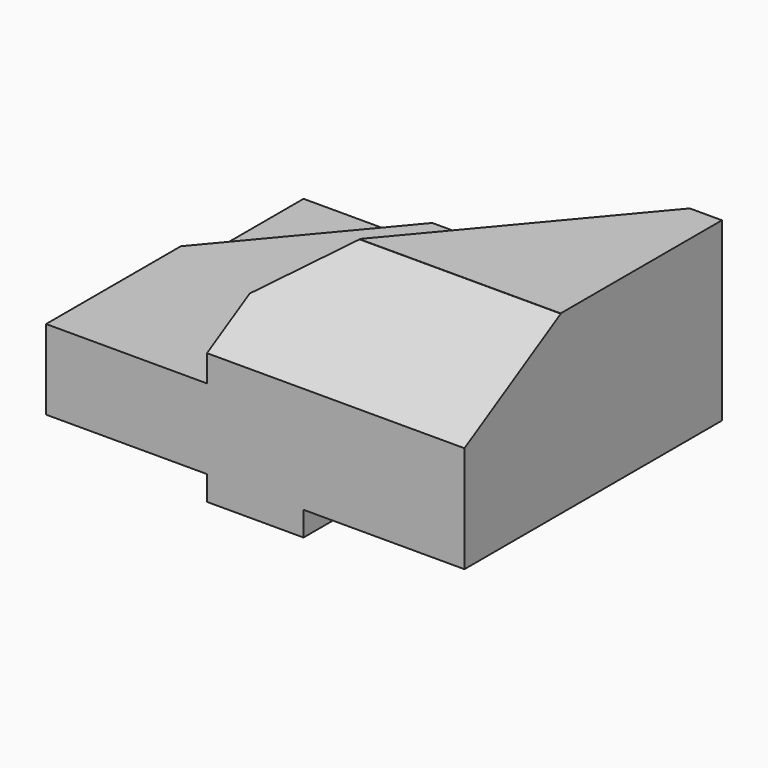
from build123d import *

# Parameters (mm, degrees)
F0_W      = 82.55
F0_H      = 63.5
F1_DEPTH  = 15.748
F3_DEPTH  = 4.064
F4_W      = 19.05
F4_H      = 63.5
F5_DEPTH  = 4.826
F7_DEPTH  = 19.05
F8_R      = 6.35
F9_DEPTH  = 8.89
F14_DEPTH = 25.4
F16_DEPTH = 25.4
F18_W     = 23.9344900474
F18_H     = 17.6518000662
F19_DEPTH = 31.75


with BuildPart() as f1:
    # F0 (on Top) → F1 (new body)
    with BuildSketch(Plane.XY):
        Rectangle(F0_W, F0_H)
    extrude(amount=F1_DEPTH)

    # F2 (on face) → F3 (cut)
    with BuildSketch(Plane.XY.offset(15.748)):
        Polygon((-41.275, 1.4794587481), (-15.875, 31.75), (-41.275, 31.75), align=None)
    extrude(amount=-F3_DEPTH, mode=Mode.SUBTRACT)

    # F4 (on face) → F5 (join)
    with BuildSketch(Plane(origin=(0, 0, 0), x_dir=(1, 0, 0), z_dir=(0, 0, -1))):
        Rectangle(F4_W, F4_H)
    extrude(amount=F5_DEPTH)

    # F6 (on face) → F7 (join)
    with BuildSketch(Plane.XY.offset(15.748)):
        Polygon((41.275, -31.75), (41.275, 31.75), (34.925, 31.75), (-18.3578265798, -31.75), align=None)
    extrude(amount=F7_DEPTH)

    # F8 (on face) → F9 (cut)
    with BuildSketch(Plane.XY.offset(15.748)):
        with Locations((3.175, 12.7)):
            Circle(F8_R)
    extrude(amount=-F9_DEPTH, mode=Mode.SUBTRACT)

    # F13 (on face) → F14 (cut)
    with BuildSketch(Plane(origin=(0, -17.0362972024, 29.5082354343), x_dir=(1, 0, 0), z_dir=(0, 0.4999936063, -0.8660290951))):
        Polygon((-18.5759086162, 20.4719938338), (-20.111516118, 17.1120017767), (0, -10.4399453849), (43.6191521585, -10.4399453849), (43.6191521585, 20.4719938338), align=None)
    extrude(amount=-F14_DEPTH, mode=Mode.SUBTRACT)

    # F15 (on face) → F16 (cut)
    with BuildSketch(Plane(origin=(4.8610082234, -4.0788702074, 0), x_dir=(-0.6427876097, -0.7660444431, 0), z_dir=(-0.7660444431, 0.6427876097, 0))):
        Polygon((36.1220945353, 34.798), (14.8864189693, 34.798), (36.1220945353, 25.5741356141), align=None)
    extrude(amount=-F16_DEPTH, mode=Mode.SUBTRACT)

    # F18 (on offset) → F19 (cut)
    with BuildSketch(Plane(origin=(-41.275, 0, 0), x_dir=(0, -1, 0), z_dir=(-1, 0, 0))):
        with Locations((27.5025297888, 24.5739000331)):
            Rectangle(F18_W, F18_H)
    extrude(amount=-F19_DEPTH, mode=Mode.SUBTRACT)


solid = f1.part
